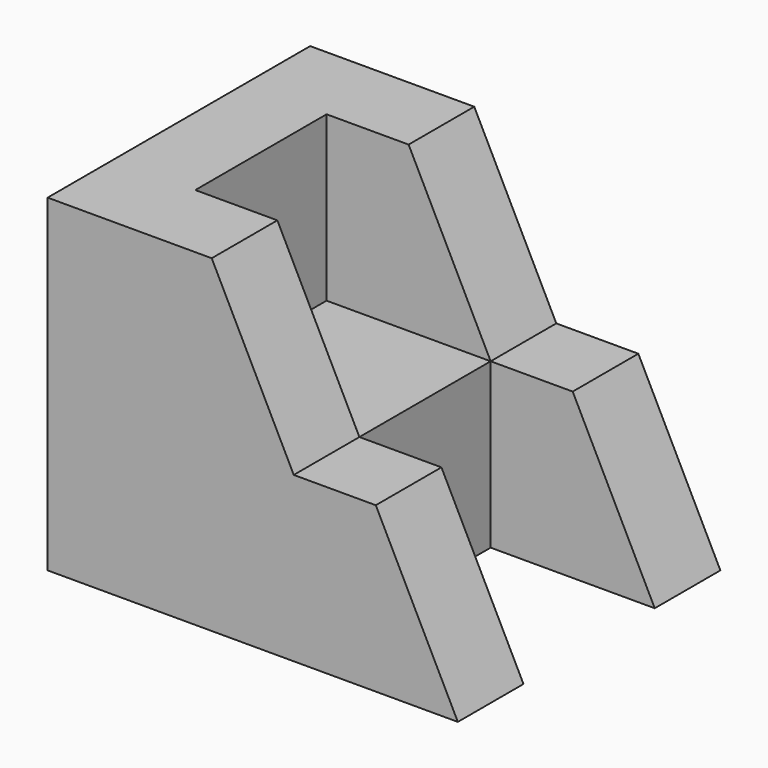
from build123d import *

# Parameters (mm, degrees)
F1_DEPTH = 20
F3_DEPTH = 10


with BuildPart() as f1:
    # F0 (on Front) → F1 (new body, symmetric)
    with BuildSketch(Plane.XZ):
        Polygon((0, 0), (50, 0), (40, 20), (30, 20), (20, 40), (0, 40), align=None)
    extrude(amount=F1_DEPTH, both=True)

    # F2 (on Front) → F3 (cut, symmetric)
    with BuildSketch(Plane.XZ):
        Polygon((30, 0), (50, 0), (50, 40), (10, 40), (10, 20), (30, 20), align=None)
    extrude(amount=F3_DEPTH, both=True, mode=Mode.SUBTRACT)


solid = f1.part
